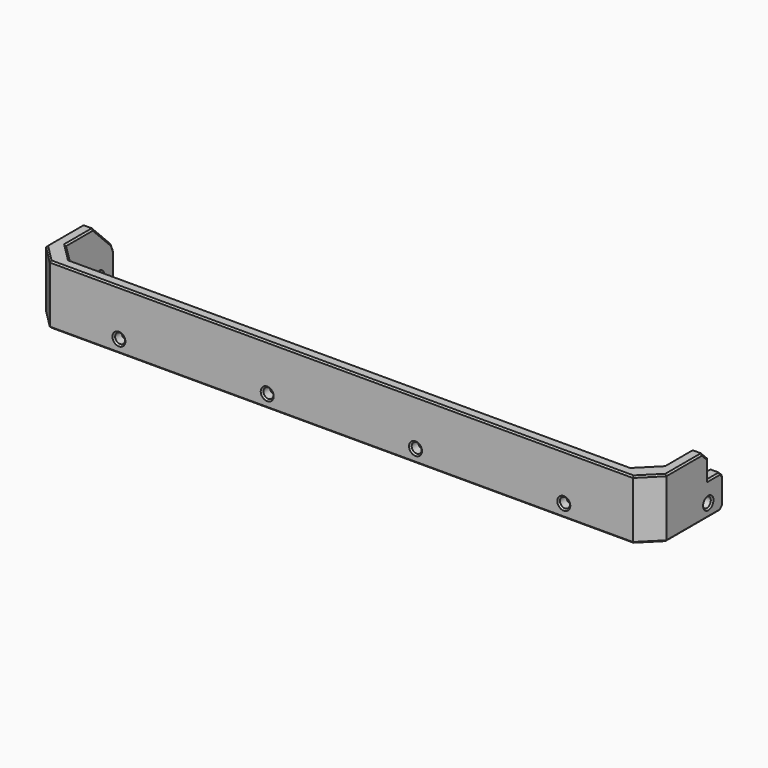
from build123d import *

# Parameters (mm, degrees)
PAD011_DEPTH          = 16
CHAMFER036003006_SIZE = 5
SKETCH027_W           = 5
SKETCH027_H           = 7
POCKET008018_DEPTH    = 5
SKETCH028_R           = 1.35
POCKET008019_DEPTH    = 167.301
POCKET008020_DEPTH    = 167.301
CHAMFER036003007_SIZE = 1
SKETCH029_R           = 1.35
POCKET008021_DEPTH    = 24.151
CHAMFER036003008_SIZE = 0.4


with BuildPart() as part:
    # Sketch026 → Pad011 (new body)
    with BuildSketch(Plane.XY):
        Polygon((-80.65, -20), (-80.65, -41.15), (80.65, -41.15), (80.65, -20), (83.65, -20), (83.65, -44.15), (-83.65, -44.15), (-83.65, -20), align=None)
    extrude(amount=PAD011_DEPTH)

    # Chamfer036003006
    chamfer036003006_edges = [part.edges().sort_by_distance(p)[0] for p in [
        (-83.65, -44.15, 8),
        (83.65, -44.15, 8),
        (-80.65, -41.15, 8),
        (80.65, -41.15, 8),
    ]]
    chamfer(chamfer036003006_edges, length=CHAMFER036003006_SIZE)

    # Sketch027 (on Face14 of Chamfer036003006) → Pocket008018 (cut)
    with BuildSketch(Plane.YZ.offset(83.65)):
        with Locations((-22.5, 12.5)):
            Rectangle(SKETCH027_W, SKETCH027_H)
    extrude(amount=-POCKET008018_DEPTH, mode=Mode.SUBTRACT)

    # Sketch028 (on Face14 of Pocket008018) → Pocket008019 (cut, through all)
    with BuildSketch(Plane.YZ.offset(83.65)):
        with Locations((-25, 3.5)):
            Circle(SKETCH028_R)
        Polygon((-27, 16), (-20, 9), (-20, 16), align=None)
    extrude(amount=-POCKET008019_DEPTH, mode=Mode.SUBTRACT)

    # Sketch028 (on Face14 of Pocket008018) → Pocket008020 (cut, through all)
    with BuildSketch(Plane.YZ.offset(83.65)):
        with Locations((-25, 3.5)):
            Circle(SKETCH028_R)
        Polygon((-27, 16), (-20, 9), (-20, 16), align=None)
    extrude(amount=-POCKET008020_DEPTH, mode=Mode.SUBTRACT)

    # Chamfer036003007
    chamfer036003007_edges = [part.edges().sort_by_distance(p)[0] for p in [
        (82.15, -20, 9),
        (82.15, -20, 0),
        (-82.15, -20, 9),
        (-82.15, -20, 0),
    ]]
    chamfer(chamfer036003007_edges, length=CHAMFER036003007_SIZE)

    # Sketch029 (on Face12 of Chamfer036003007) → Pocket008021 (cut, through all)
    with BuildSketch(Plane.XZ.offset(44.15)):
        with Locations((-60, 3.5)):
            Circle(SKETCH029_R)
        with Locations((-20, 3.5)):
            Circle(SKETCH029_R)
        with Locations((20, 3.5)):
            Circle(SKETCH029_R)
        with Locations((60, 3.5)):
            Circle(SKETCH029_R)
    extrude(amount=-POCKET008021_DEPTH, mode=Mode.SUBTRACT)

    # Chamfer036003008
    chamfer036003008_edges = [part.edges().sort_by_distance(p)[0] for p in [
        (83.65, -25, 11.5),
        (83.65, -23, 9),
        (83.65, -20.5, 8.5),
        (83.65, -20, 4.5),
        (83.65, -20.5, 0.5),
        (83.65, -30.075, 0),
        (83.65, -26, 15),
        (83.65, -33.075, 16),
        (81.15, -41.65, 16),
        (81.15, -41.65, 0),
        (0, -44.15, 16),
        (0, -44.15, 0),
        (-81.15, -41.65, 16),
        (-81.15, -41.65, 0),
        (-80.65, -26.35, 3.5),
        (-82.15, -23.65, 3.5),
        (-83.65, -26.35, 3.5),
        (-61.35, -44.15, 3.5),
        (-58.65, -42.65, 3.5),
        (-61.35, -41.15, 3.5),
        (-21.35, -44.15, 3.5),
        (-18.65, -42.65, 3.5),
        (-21.35, -41.15, 3.5),
        (18.65, -44.15, 3.5),
        (21.35, -42.65, 3.5),
        (18.65, -41.15, 3.5),
        (58.65, -44.15, 3.5),
        (61.35, -42.65, 3.5),
        (58.65, -41.15, 3.5),
        (-83.65, -33.075, 16),
        (-83.65, -23.853553, 12.853553),
        (-83.65, -20.353553, 8.853553),
        (-83.65, -20, 4.5),
        (-83.65, -20.5, 0.5),
        (-83.65, -30.075, 0),
        (82.15, -23.65, 3.5),
        (80.65, -26.35, 3.5),
        (83.65, -26.35, 3.5),
        (80.65, -20.5, 0.5),
        (80.65, -28.575, 0),
        (80.65, -20, 4.5),
        (80.65, -20.5, 8.5),
        (80.65, -23, 9),
        (80.65, -25, 11.5),
        (80.65, -26, 15),
        (80.65, -31.575, 16),
        (78.15, -38.65, 0),
        (78.15, -38.65, 16),
        (0, -41.15, 16),
        (0, -41.15, 0),
        (-78.15, -38.65, 0),
        (-78.15, -38.65, 16),
        (-80.65, -31.575, 16),
        (-80.65, -23.853553, 12.853553),
        (-80.65, -20.353553, 8.853553),
        (-80.65, -20, 4.5),
        (-80.65, -20.5, 0.5),
        (-80.65, -28.575, 0),
    ]]
    chamfer(chamfer036003008_edges, length=CHAMFER036003008_SIZE)


with BuildPart() as part_1:
    # Body003 placement: moved
    add(part.part.moved(Location((0, 0, -8))))


solid = part_1.part
